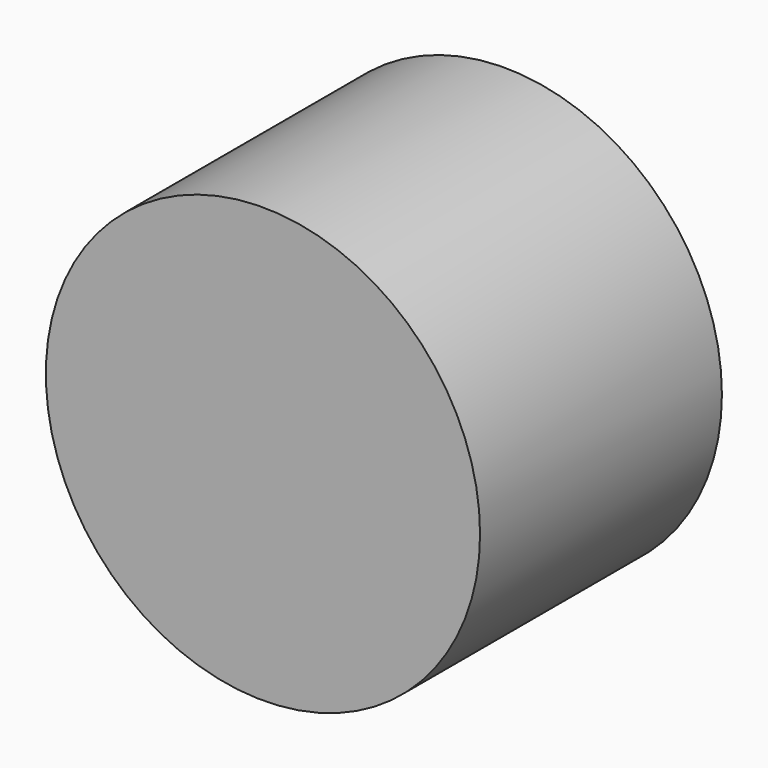
from build123d import *

# Parameters (mm, degrees)
F1_R     = 45.2378868584
F2_DEPTH = 62.992
F0_R     = 45.2378868584


with BuildPart() as f2:
    # F1 (on face) → F2 (new body)
    with BuildSketch(Plane.XZ):
        with Locations((-2.3266673088, 0)):
            Circle(F1_R)
    extrude(amount=F2_DEPTH)


with BuildPart() as f2b:
    # F0 (on Front) → F2, piece 2 (new body)
    with BuildSketch(Plane.XZ):
        with Locations((-2.3266673088, 0)):
            Circle(F0_R)
    extrude(amount=F2_DEPTH)


solid = Compound([f2.part, f2b.part])
